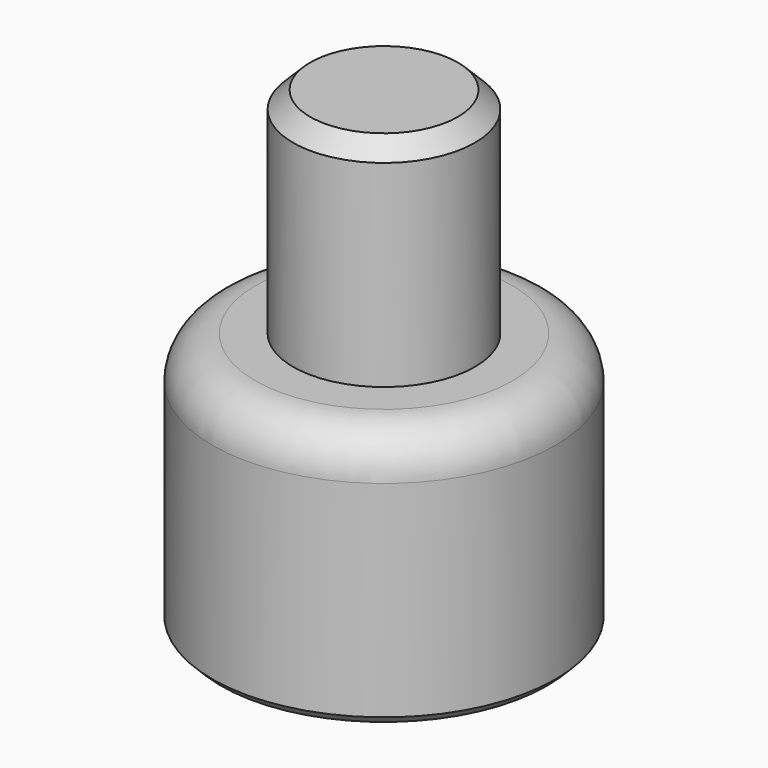
from build123d import *

# Parameters (mm, degrees)
F0_R     = 20
F1_DEPTH = 30
F2_R     = 10.6
F3_DEPTH = 25
F5_R     = 14.55
F6_DEPTH = 22
F7_SIZE  = 2
F8_R     = 5
F9_SIZE  = 1


with BuildPart() as f1:
    # F0 (on Top) → F1 (new body)
    with BuildSketch(Plane.XY):
        Circle(F0_R)
    extrude(amount=-F1_DEPTH)

    # F2 (on Top) → F3 (join)
    with BuildSketch(Plane.XY):
        Circle(F2_R)
    extrude(amount=F3_DEPTH)

    # F5 (on offset) → F6 (cut)
    with BuildSketch(Plane(origin=(0, 0, -30), x_dir=(1, 0, 0), z_dir=(0, 0, -1))):
        Circle(F5_R)
    extrude(amount=-F6_DEPTH, mode=Mode.SUBTRACT)

    # F7
    f7_edges = [f1.edges().sort_by_distance(p)[0] for p in [
        (-10.6, 0, 25),
    ]]
    chamfer(f7_edges, length=F7_SIZE)

    # F8
    f8_edges = [f1.edges().sort_by_distance(p)[0] for p in [
        (-20, 0, 0),
    ]]
    fillet(f8_edges, radius=F8_R)

    # F9
    f9_edges = [f1.edges().sort_by_distance(p)[0] for p in [
        (-20, 0, -30),
        (-14.55, 0, -30),
    ]]
    chamfer(f9_edges, length=F9_SIZE)


solid = f1.part
